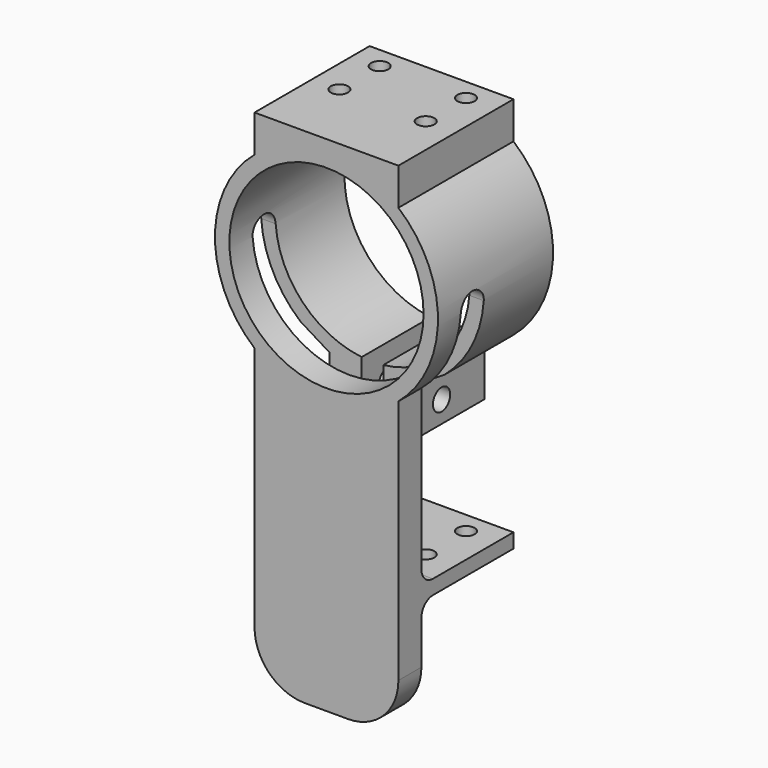
from build123d import *

# Parameters (mm, degrees)
SKETCH003_R                          = 1.2
EXTRUDE003_DEPTH                     = 6
EXTRUDE004_DEPTH                     = 5
SKETCH002_AS_DRAWN_W                 = 3
SKETCH002_AS_DRAWN_H                 = 17.571103
EXTRUDE002_DEPTH                     = 15
EXTRUDE002_ONTO_SKETCH002_ROLL_ANGLE = 90
SKETCH_R                             = 1.5
EXTRUDE_DEPTH                        = 36
SKETCH001_AS_DRAWN_R                 = 13.5
EXTRUDE001_DEPTH                     = 20
EXTRUDE001_ONTO_SKETCH001_ROLL_ANGLE = 90


with BuildPart() as mounting_holes_top:
    # Sketch003 → Extrude003 (new body)
    with BuildSketch(Plane.XY.offset(70)):
        with Locations((10.8, 17)):
            Circle(SKETCH003_R)
        with Locations((22.8, 17)):
            Circle(SKETCH003_R)
        with Locations((10.8, 10)):
            Circle(SKETCH003_R)
        with Locations((22.8, 10)):
            Circle(SKETCH003_R)
    extrude(amount=-EXTRUDE003_DEPTH)


with BuildPart() as fusion:
    # Sketch003 → Extrude004 (new body)
    with BuildSketch(Plane.XY.offset(70)):
        with Locations((10.8, 17)):
            Circle(SKETCH003_R)
        with Locations((22.8, 17)):
            Circle(SKETCH003_R)
        with Locations((10.8, 10)):
            Circle(SKETCH003_R)
        with Locations((22.8, 10)):
            Circle(SKETCH003_R)
    extrude(amount=EXTRUDE004_DEPTH)


with BuildPart() as fusion_1:
    # Extrude004 placement: moved
    add(fusion.part.moved(Location((0, 0, -57))))

    # Fusion: union Mounting_Holes_Top
    add(mounting_holes_top.part)


with BuildPart() as extrude002:
    # Sketch002 as drawn → Extrude002 (new)
    with BuildSketch(Plane.XY):
        with Locations((0, 38.493945)):
            Rectangle(SKETCH002_AS_DRAWN_W, SKETCH002_AS_DRAWN_H)
        Polygon((6, 38.708394), (6, 29.708394), (20, 29.708394), (20, 47.279497), align=None)
        Polygon((-6, 38.708394), (-6, 29.708394), (-20, 29.708394), (-20, 47.279497), align=None)
    extrude(amount=-EXTRUDE002_DEPTH)


with BuildPart() as extrude002_1:
    # Extrude002 onto Sketch002 roll: moved
    add(extrude002.part.rotate(Axis((0, 0, 0), (1, 0, 0)), EXTRUDE002_ONTO_SKETCH002_ROLL_ANGLE))


with BuildPart() as extrude002_2:
    # Extrude002 onto Sketch002 placement: moved
    add(extrude002_1.part.moved(Location((17, 0, 0))))


with BuildPart() as extrude002_3:
    # Extrude002 placement: moved
    add(extrude002_2.part.moved(Location((0, 5, 0))))


with BuildPart() as extrude_body:
    # Sketch → Extrude (new body)
    with BuildSketch(Plane.YZ):
        with Locations((12.5, 35)):
            Circle(SKETCH_R)
        with BuildLine():
            Line((4, 52), (4, 19))
            ThreePointArc((4, 19), (4.585786, 17.585786), (6, 17))
            Line((6, 17), (45, 17))
            Line((45, 17), (45, 32))
            Line((8, 32), (45, 32))
            Line((8, 52), (8, 32))
            ThreePointArc((8, 52), (6, 54), (4, 52))
        make_face()
        with BuildLine():
            Line((6, 15), (45, 15))
            Line((45, 15), (45, -5))
            Line((45, -5), (6, -5))
            ThreePointArc((4, -3), (4.585786, -4.414214), (6, -5))
            Line((4, -3), (4, 13))
            ThreePointArc((6, 15), (4.585786, 14.414214), (4, 13))
        make_face()
    extrude(amount=EXTRUDE_DEPTH)


with BuildPart() as extrude_body_1:
    # Extrude placement: moved
    add(extrude_body.part.moved(Location((-1, 0, 0))))


with BuildPart() as cut002:
    # Sketch001 as drawn → Extrude001 (new)
    with BuildSketch(Plane.XY):
        with BuildLine():
            Line((-10, 70), (10, 70))
            Line((10, 70), (10, 64.842719))
            ThreePointArc((10, 41.157281), (15.5, 53), (10, 64.842719))
            Line((10, 41.157281), (10, 7))
            ThreePointArc((3, 0), (7.949747, 2.050253), (10, 7))
            Line((-3, 0), (3, 0))
            ThreePointArc((-10, 7), (-7.949747, 2.050253), (-3, 0))
            Line((-10, 41.157281), (-10, 7))
            ThreePointArc((-10, 64.842719), (-15.5, 53), (-10, 41.157281))
            Line((-10, 70), (-10, 64.842719))
        make_face()
        with Locations((0, 53)):
            Circle(SKETCH001_AS_DRAWN_R, mode=Mode.SUBTRACT)
    extrude(amount=-EXTRUDE001_DEPTH)


with BuildPart() as cut002_1:
    # Extrude001 onto Sketch001 roll: moved
    add(cut002.part.rotate(Axis((0, 0, 0), (1, 0, 0)), EXTRUDE001_ONTO_SKETCH001_ROLL_ANGLE))


with BuildPart() as cut002_2:
    # Extrude001 onto Sketch001 placement: moved
    add(cut002_1.part.moved(Location((17, 0, 0))))

    # Cut: cut Extrude body
    add(extrude_body_1.part, mode=Mode.SUBTRACT)

    # Cut001: cut Extrude002
    add(extrude002_3.part, mode=Mode.SUBTRACT)

    # Cut002: cut Fusion
    add(fusion_1.part, mode=Mode.SUBTRACT)


solid = cut002_2.part
